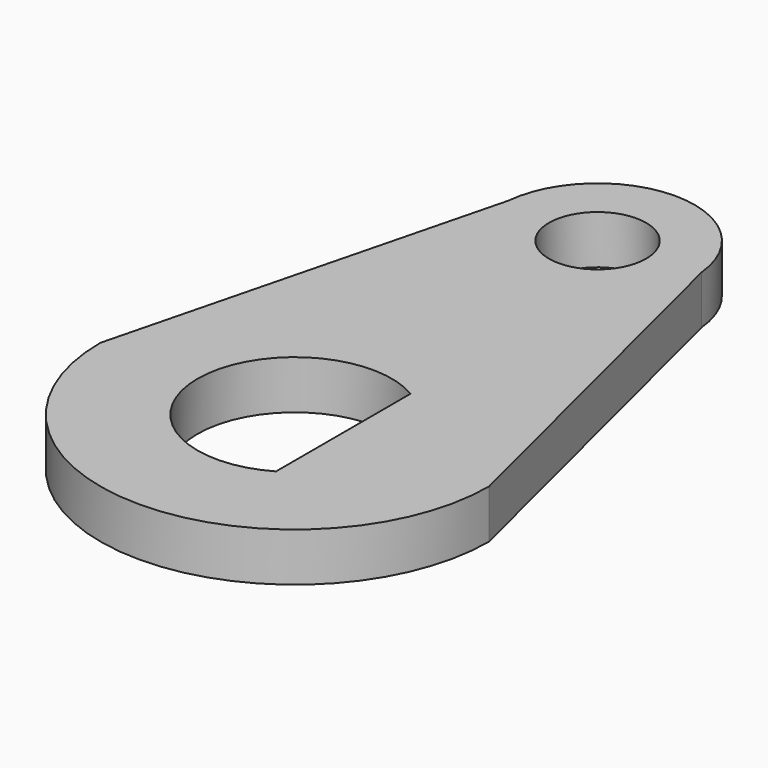
from build123d import *

# Parameters (mm, degrees)
F0_R     = 3.175
F1_DEPTH = 3.175


with BuildPart() as f1:
    # F0 (on Top) → F1 (new body)
    with BuildSketch(Plane.XY):
        with BuildLine():
            Line((-6.255232, 25.271598), (-12.7, 0))
            ThreePointArc((-12.7, 0), (0, -12.7), (12.7, 0))
            Line((12.7, 0), (6.385082, 25.259674))
            ThreePointArc((6.385082, 25.259674), (0.070335, 31.000747), (-6.255232, 25.271598))
        make_face()
        with BuildLine():
            ThreePointArc((3.175, -5.499261), (-6.35, 0), (3.175, 5.499261))
            Line((3.175, 5.499261), (3.175, -5.499261))
        make_face(mode=Mode.SUBTRACT)
        with Locations((0.064345, 24.65075)):
            Circle(F0_R, mode=Mode.SUBTRACT)
    extrude(amount=-F1_DEPTH)


solid = f1.part
